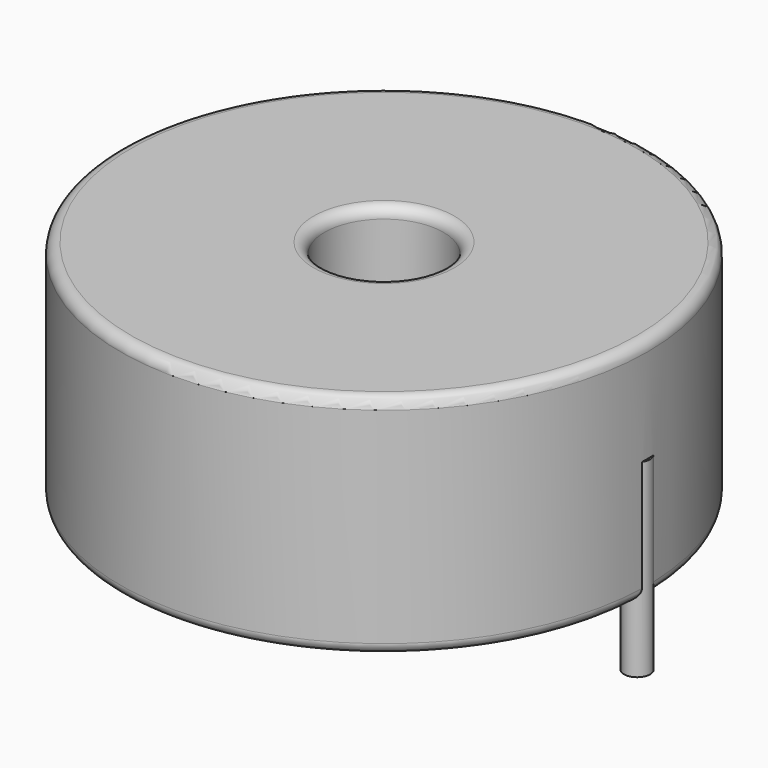
from build123d import *

# Parameters (mm, degrees)
SKETCH001_R       = 0.6
PAD001_DEPTH      = 5.25
PAD001_DEPTH_BACK = 3.5
SKETCH_R          = 12.2
SKETCH_R_2        = 2.75
PAD_DEPTH         = 10.5
FILLET_R          = 0.5


with BuildPart() as pad001:
    # Sketch001 → Pad001 (new body, two sides)
    with BuildSketch(Plane.XY.offset(0.5)) as pad001_sk:
        Circle(SKETCH001_R)
        with Locations((23.4, 0)):
            Circle(SKETCH001_R)
    extrude(amount=PAD001_DEPTH)
    extrude(pad001_sk.sketch, amount=-PAD001_DEPTH_BACK)


with BuildPart() as obj1:
    # Sketch → Pad (new body)
    with BuildSketch(Plane.XY.offset(0.1)):
        with Locations((11.7, 0)):
            Circle(SKETCH_R)
        with Locations((11.7, 0)):
            Circle(SKETCH_R_2, mode=Mode.SUBTRACT)
    extrude(amount=PAD_DEPTH)

    # Fillet
    fillet_edges = [obj1.edges().sort_by_distance(p)[0] for p in [
        (8.95, 0, 10.6),
        (-0.5, 0, 10.6),
        (-0.5, 0, 0.1),
    ]]
    fillet(fillet_edges, radius=FILLET_R)

    # obj1: union Pad001
    add(pad001.part)


solid = obj1.part
